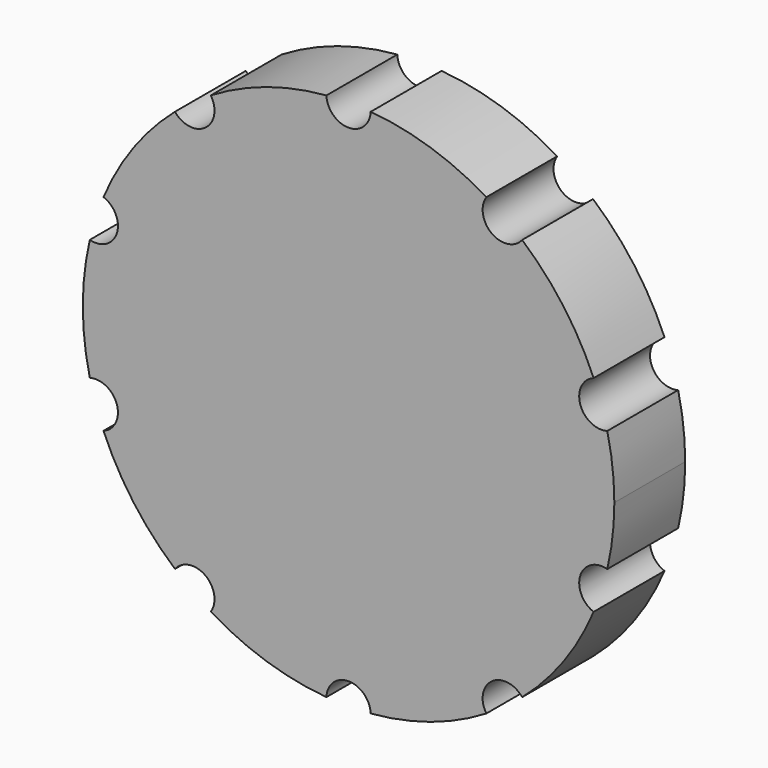
from build123d import *

# Parameters (mm, degrees)
F1_DEPTH = 25.4


with BuildPart() as f1:
    # F0 (on Front) → F1 (new body)
    with BuildSketch(Plane.XZ):
        with BuildLine():
            ThreePointArc((74.179427, -17.43137), (75.693171, -8.774044), (76.2, 0))
            ThreePointArc((76.2, 0), (75.693171, 8.774044), (74.179427, 17.43137))
            ThreePointArc((74.179427, 17.43137), (66.431298, 21.584837), (70.258319, 29.499298))
            ThreePointArc((70.258319, 29.499298), (61.647095, 44.789236), (49.766515, 57.703848))
            ThreePointArc((49.766515, 57.703848), (41.0568, 56.509837), (39.500921, 65.162238))
            ThreePointArc((39.500921, 65.162238), (23.547095, 72.470507), (6.344485, 75.935417))
            ThreePointArc((6.344485, 75.935417), (0, 69.85), (-6.344485, 75.935417))
            ThreePointArc((-6.344485, 75.935417), (-23.547095, 72.470507), (-39.500921, 65.162238))
            ThreePointArc((-39.500921, 65.162238), (-38.710449, 63.483083), (-38.439236, 61.647095))
            ThreePointArc((-38.439236, 61.647095), (-42.70156, 55.650087), (-49.766515, 57.703848))
            ThreePointArc((-49.766515, 57.703848), (-61.647095, 44.789236), (-70.258319, 29.499298))
            ThreePointArc((-70.258319, 29.499298), (-67.256588, 27.171671), (-66.120507, 23.547095))
            ThreePointArc((-66.120507, 23.547095), (-68.631831, 18.488728), (-74.179427, 17.43137))
            ThreePointArc((-74.179427, 17.43137), (-76.2, 0), (-74.179427, -17.43137))
            ThreePointArc((-74.179427, -17.43137), (-68.631831, -18.488728), (-66.120507, -23.547095))
            ThreePointArc((-66.120507, -23.547095), (-67.256588, -27.171671), (-70.258319, -29.499298))
            ThreePointArc((-70.258319, -29.499298), (-61.647095, -44.789236), (-49.766515, -57.703848))
            ThreePointArc((-49.766515, -57.703848), (-42.70156, -55.650087), (-38.439236, -61.647095))
            ThreePointArc((-38.439236, -61.647095), (-38.710449, -63.483083), (-39.500921, -65.162238))
            ThreePointArc((-39.500921, -65.162238), (-23.547095, -72.470507), (-6.344485, -75.935417))
            ThreePointArc((-6.344485, -75.935417), (0, -69.85), (6.344485, -75.935417))
            ThreePointArc((6.344485, -75.935417), (23.547095, -72.470507), (39.500921, -65.162238))
            ThreePointArc((39.500921, -65.162238), (41.0568, -56.509837), (49.766515, -57.703848))
            ThreePointArc((49.766515, -57.703848), (61.647095, -44.789236), (70.258319, -29.499298))
            ThreePointArc((70.258319, -29.499298), (66.431298, -21.584837), (74.179427, -17.43137))
        make_face()
    extrude(amount=F1_DEPTH)


solid = f1.part
